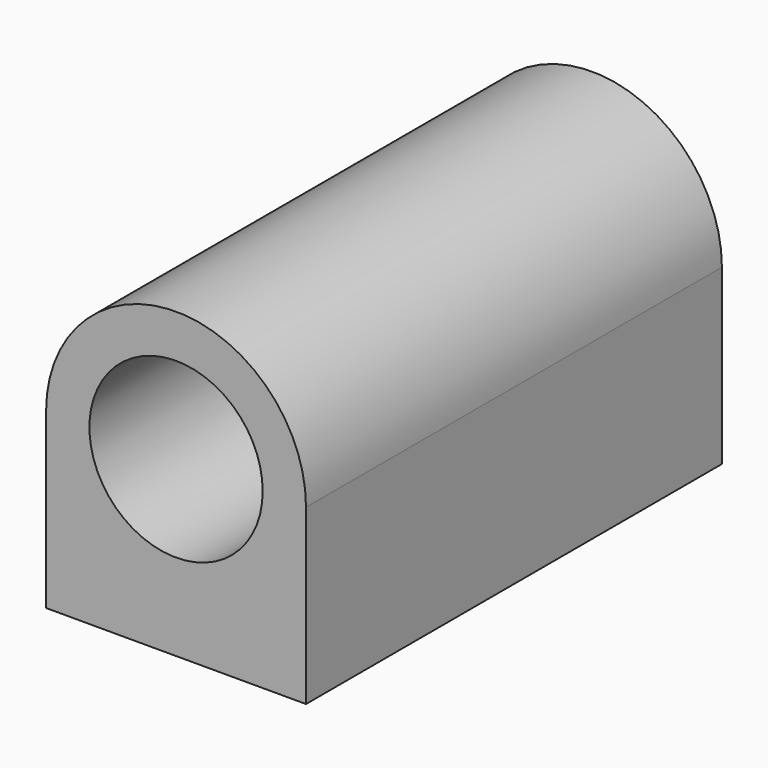
from build123d import *

# Parameters (mm, degrees)
F0_R     = 12.7
F1_DEPTH = 76.2
F2_R     = 1.651
F3_DEPTH = 6.35


with BuildPart() as f1:
    # F0 (on Front) → F1 (new body)
    with BuildSketch(Plane.XZ):
        with BuildLine():
            Line((19.05, -25.4), (19.05, 0))
            ThreePointArc((19.05, 0), (0, 19.05), (-19.05, 0))
            Line((-19.05, 0), (-19.05, -25.4))
            Line((-19.05, -25.4), (19.05, -25.4))
        make_face()
        Circle(F0_R, mode=Mode.SUBTRACT)
    extrude(amount=F1_DEPTH)

    # F2 (on face) → F3 (cut, symmetric)
    with BuildSketch(Plane(origin=(0, 0, -25.4), x_dir=(1, 0, 0), z_dir=(0, 0, -1))):
        with Locations((-12.7, 69.85)):
            Circle(F2_R)
        with Locations((12.7, 69.85)):
            Circle(F2_R)
        with Locations((-12.7, 6.35)):
            Circle(F2_R)
        with Locations((12.7, 6.35)):
            Circle(F2_R)
    extrude(amount=F3_DEPTH, both=True, mode=Mode.SUBTRACT)


solid = f1.part
